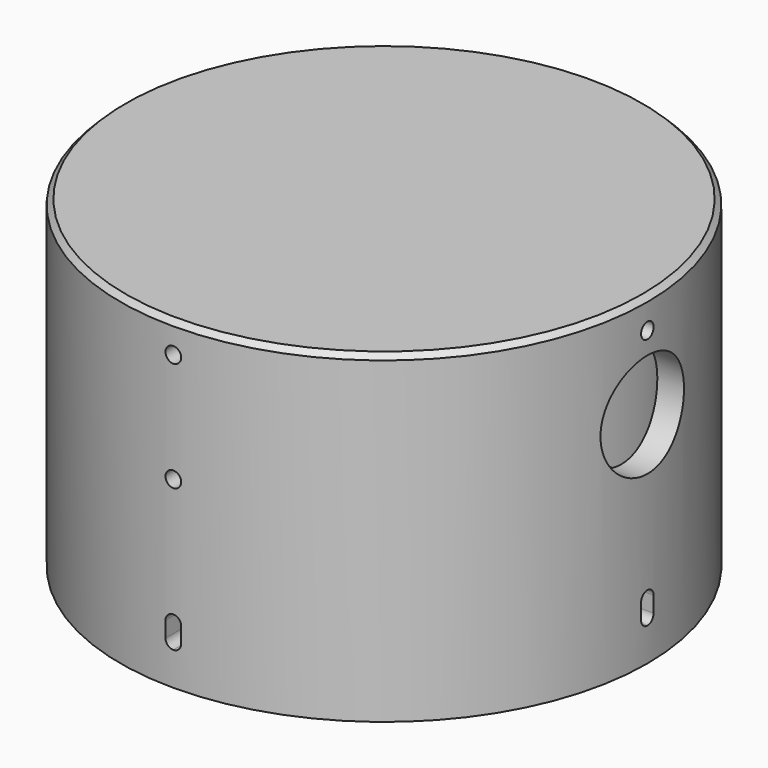
from build123d import *

# Parameters (mm, degrees)
SKETCH_R        = 50.5
SKETCH_R_2      = 45.5
PAD_DEPTH       = 60
SKETCH002_R     = 1.5
SKETCH002_R_2   = 10
POCKET_DEPTH    = 8
SKETCH003_R     = 1.5
POCKET001_DEPTH = 8
SKETCH004_R     = 1.5
POCKET002_DEPTH = 5
SKETCH005_R     = 50.5
PAD001_DEPTH    = 2
CHAMFER_SIZE    = 1
CHAMFER001_SIZE = 1


with BuildPart() as part:
    # Sketch → Pad (new body)
    with BuildSketch(Plane.XY):
        Circle(SKETCH_R)
        Circle(SKETCH_R_2, mode=Mode.SUBTRACT)
    extrude(amount=PAD_DEPTH)

    # Sketch002 (on DatumPlane) → Pocket (cut)
    with BuildSketch(Plane(origin=(50.5, 0, 60), x_dir=(0, 1, 0), z_dir=(-1, 0, 0))):
        with Locations((0, 3.8)):
            Circle(SKETCH002_R)
        with Locations((0, 18)):
            Circle(SKETCH002_R_2)
        with BuildLine():
            Line((0, 47.6), (0.0005, 47.6))
            ThreePointArc((0.0005, 47.6), (1.060807, 48.039193), (1.5, 49.0995))
            Line((1.5, 49.0995), (1.5, 52.1005))
            ThreePointArc((1.5, 52.1005), (1.060807, 53.160807), (0.0005, 53.6))
            Line((0.0005, 53.6), (0, 53.6))
            ThreePointArc((0, 53.6), (-1.06066, 53.16066), (-1.5, 52.1))
            Line((-1.5, 52.1), (-1.5, 49.1))
            ThreePointArc((-1.5, 49.1), (-1.06066, 48.03934), (0, 47.6))
        make_face()
    extrude(amount=POCKET_DEPTH, mode=Mode.SUBTRACT)

    # Sketch003 (on DatumPlane) → Pocket001 (cut)
    with BuildSketch(Plane(origin=(0, 50.5, 60), x_dir=(0, 0, -1), z_dir=(0, 1, 0))):
        with Locations((3.8, 0)):
            Circle(SKETCH003_R)
        with Locations((24.8, 0)):
            Circle(SKETCH003_R)
    extrude(amount=-POCKET001_DEPTH, mode=Mode.SUBTRACT)

    # Sketch004 (on DatumPlane) → Pocket002 (cut)
    with BuildSketch(Plane(origin=(0, -50.5, 60), x_dir=(0, 0, 1), z_dir=(0, -1, 0))):
        with Locations((-3.8, 0)):
            Circle(SKETCH004_R)
        with Locations((-24.8, 0)):
            Circle(SKETCH004_R)
        with BuildLine():
            Line((-52.1, -1.5), (-49.095, -1.5))
            ThreePointArc((-49.095, -1.5), (-48.037875, -1.062125), (-47.6, -0.005))
            Line((-47.6, -0.005), (-47.6, 0))
            ThreePointArc((-47.6, 0), (-48.03934, 1.06066), (-49.1, 1.5))
            Line((-49.1, 1.5), (-52.105, 1.5))
            ThreePointArc((-52.105, 1.5), (-53.162125, 1.062125), (-53.6, 0.005))
            Line((-53.6, 0.005), (-53.6, 0))
            ThreePointArc((-53.6, 0), (-53.16066, -1.06066), (-52.1, -1.5))
        make_face()
    extrude(amount=-POCKET002_DEPTH, mode=Mode.SUBTRACT)

    # Sketch005 (on Face8 of Pocket002) → Pad001 (join)
    with BuildSketch(Plane.XY.offset(60)):
        Circle(SKETCH005_R)
    extrude(amount=PAD001_DEPTH)

    # Chamfer
    chamfer_edges = [part.edges().sort_by_distance(p)[0] for p in [
        (-50.5, 0, 62),
    ]]
    chamfer(chamfer_edges, length=CHAMFER_SIZE)

    # Chamfer001
    chamfer001_edges = [part.edges().sort_by_distance(p)[0] for p in [
        (-45.5, 0, 0),
    ]]
    chamfer(chamfer001_edges, length=CHAMFER001_SIZE)


solid = part.part
